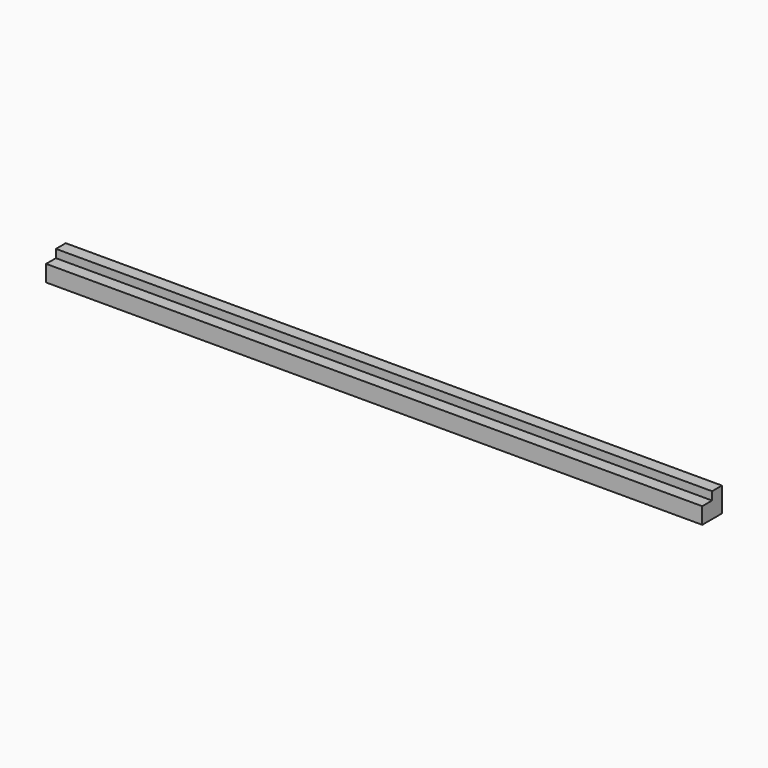
from build123d import *

# Parameters (mm, degrees)
F0_W     = 400
F0_H     = 15
F1_DEPTH = 15
F2_W     = 7.5
F2_H     = 5
F3_DEPTH = 400


with BuildPart() as f1:
    # F0 (on Top) → F1 (new body)
    with BuildSketch(Plane.XY):
        with Locations((68.965334, 17.099786)):
            Rectangle(F0_W, F0_H)
    extrude(amount=F1_DEPTH)

    # F2 (on face) → F3 (cut, through all)
    with BuildSketch(Plane.YZ.offset(268.965334)):
        with Locations((13.349786, 12.5)):
            Rectangle(F2_W, F2_H)
    extrude(amount=-F3_DEPTH, mode=Mode.SUBTRACT)


solid = f1.part
